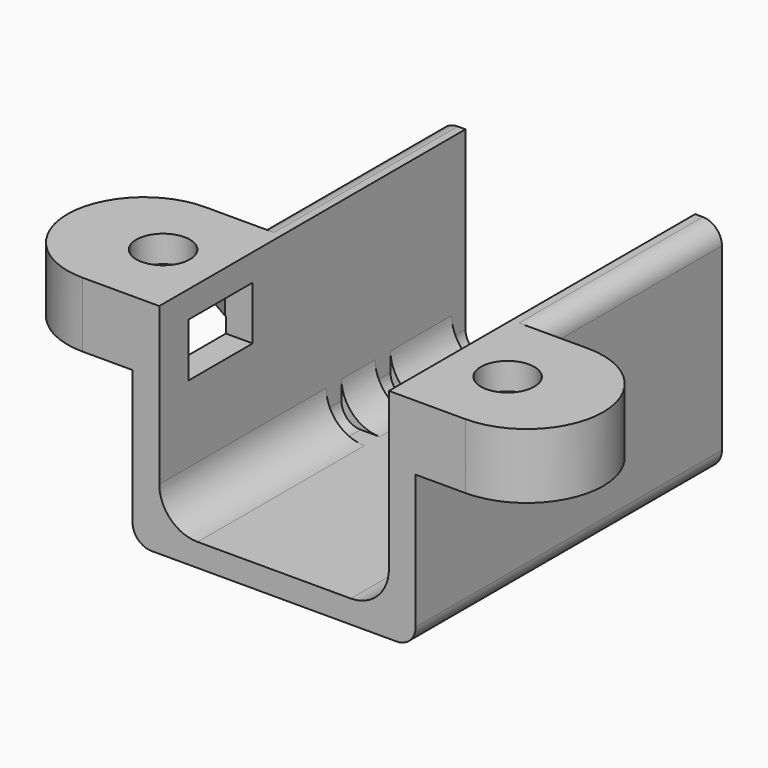
from build123d import *

# Parameters (mm, degrees)
PAD006_DEPTH    = 20
SKETCH009_W     = 12.4
SKETCH009_H     = 4
SKETCH009_H_2   = 2.2
SKETCH009_H_3   = 10.9
PAD007_DEPTH    = 10.2
POCKET002_DEPTH = 19.101
PAD008_START    = -8
PAD008_DEPTH    = 3.4
POCKET003_DEPTH = 2
SKETCH013_R     = 1.4
POCKET004_DEPTH = 1.401
SKETCH015_W     = 2.8
SKETCH015_H     = 4.2
POCKET005_DEPTH = 16


with BuildPart() as part:
    # Sketch008 → Pad006 (new body)
    with BuildSketch(Plane.XZ):
        with BuildLine():
            Line((6.4, 5), (6, 5))
            Line((6, -4.2), (6, 5))
            ThreePointArc((5, -5.2), (5.707107, -4.907107), (6, -4.2))
            Line((-5, -5.2), (5, -5.2))
            ThreePointArc((-6, -4.2), (-5.707107, -4.907107), (-5, -5.2))
            Line((-6, 5), (-6, -4.2))
            Line((-6, 5), (-6.4, 5))
            ThreePointArc((-6.4, 5), (-7.107107, 4.707107), (-7.4, 4))
            Line((-7.4, 4), (-7.4, -5.4))
            ThreePointArc((-7.4, -5.4), (-7.107107, -6.107107), (-6.4, -6.4))
            Line((-6.4, -6.4), (6.4, -6.4))
            ThreePointArc((6.4, -6.4), (7.107107, -6.107107), (7.4, -5.4))
            Line((7.4, -5.4), (7.4, 4))
            ThreePointArc((7.4, 4), (7.107107, 4.707107), (6.4, 5))
        make_face()
    extrude(amount=PAD006_DEPTH)

    # Sketch009 (on Face12 of Pad006) → Pad007 (join)
    with BuildSketch(Plane(origin=(0, 0, -5.2), x_dir=(-1, 0, 0), z_dir=(0, 0, 1))):
        with Locations((0, 2.9)):
            Rectangle(SKETCH009_W, SKETCH009_H)
        with Locations((0, 7)):
            Rectangle(SKETCH009_W, SKETCH009_H_2)
        with Locations((0, 14.55)):
            Rectangle(SKETCH009_W, SKETCH009_H_3)
    extrude(amount=PAD007_DEPTH)

    # Sketch010 (on Face14 of Pad007) → Pocket002 (cut, through all)
    with BuildSketch(Plane(origin=(0, -0.9, 0), x_dir=(1, 0, 0), z_dir=(0, 1, 0))):
        with BuildLine():
            Line((-4, -7.8), (4, -7.8))
            ThreePointArc((4, -7.8), (5.414214, -7.214214), (6, -5.8))
            Line((6, -5.8), (6, 3.2))
            ThreePointArc((6, 3.2), (5.414214, 4.614214), (4, 5.2))
            Line((4, 5.2), (-4, 5.2))
            ThreePointArc((-4, 5.2), (-5.414214, 4.614214), (-6, 3.2))
            Line((-6, 3.2), (-6, -5.8))
            ThreePointArc((-6, -5.8), (-5.414214, -7.214214), (-4, -7.8))
        make_face()
    extrude(amount=-POCKET002_DEPTH, mode=Mode.SUBTRACT)

    # Sketch011 (on Face6 of Pocket002) → Pad008 (join)
    with BuildSketch(Plane(origin=(0, 0, -6.4), x_dir=(1, 0, 0), z_dir=(0, 0, -1)).offset(PAD008_START)):
        with BuildLine():
            Line((-6, 20), (-10, 20))
            ThreePointArc((-10, 20), (-14, 16), (-10, 12))
            Line((-6, 12), (-10, 12))
            Line((-6, 20), (-6, 12))
        make_face()
        with BuildLine():
            Line((6, 20), (10, 20))
            ThreePointArc((10, 12), (14, 16), (10, 20))
            Line((6, 12), (10, 12))
            Line((6, 20), (6, 12))
        make_face()
    extrude(amount=-PAD008_DEPTH)

    # Sketch012 (on Face15 of Pad008) → Pocket003 (cut)
    with BuildSketch(Plane(origin=(0, 0, 1.6), x_dir=(1, 0, 0), z_dir=(0, 0, -1))):
        Polygon((-6.401924, 14.5), (-6.401924, 17.5), (-9, 19), (-11.598076, 17.5), (-11.598076, 14.5), (-9, 13), align=None)
        Polygon((11.598076, 14.5), (11.598076, 17.5), (9, 19), (6.401924, 17.5), (6.401924, 14.5), (9, 13), align=None)
    extrude(amount=-POCKET003_DEPTH, mode=Mode.SUBTRACT)

    # Sketch013 (on Face57 of Pocket003) → Pocket004 (cut, through all)
    with BuildSketch(Plane(origin=(0, 0, 3.6), x_dir=(1, 0, 0), z_dir=(0, 0, -1))):
        with Locations((-9, 16)):
            Circle(SKETCH013_R)
        with Locations((9, 16)):
            Circle(SKETCH013_R)
    extrude(amount=-POCKET004_DEPTH, mode=Mode.SUBTRACT)

    # Sketch015 (on Face8 of Pocket004) → Pocket005 (cut)
    with BuildSketch(Plane(origin=(7.4, 0, 0), x_dir=(0, 0, 1), z_dir=(1, 0, 0))):
        with Locations((2.2, 16)):
            Rectangle(SKETCH015_W, SKETCH015_H)
    extrude(amount=-POCKET005_DEPTH, mode=Mode.SUBTRACT)


with BuildPart() as part_1:
    # Body002 placement: moved
    add(part.part.moved(Location((0, 59, 0))))


solid = part_1.part
